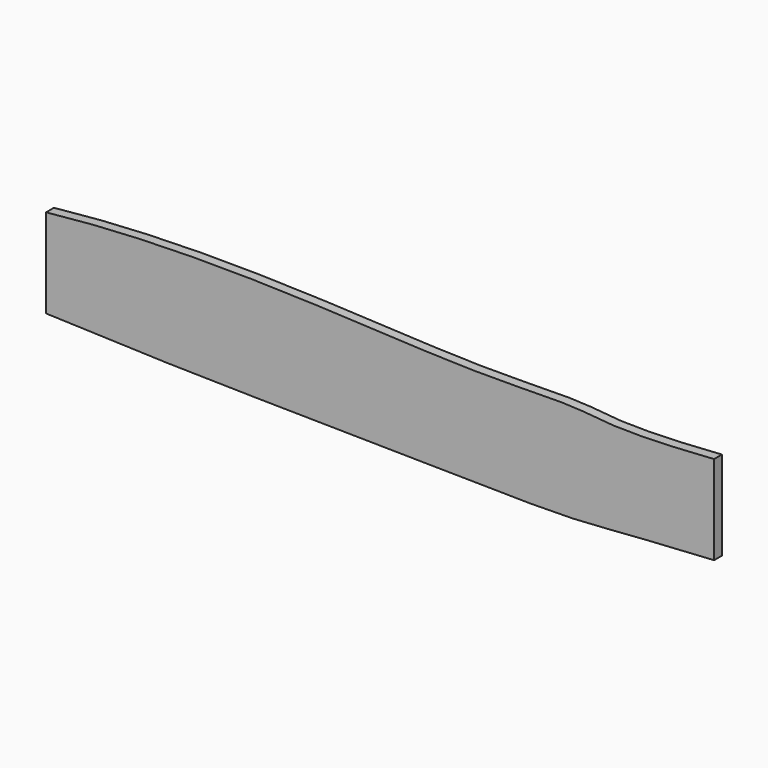
from build123d import *

# Parameters (mm, degrees)
F1_DEPTH = 22


with BuildPart() as f1:
    # F0 (on Front) → F1 (new body)
    with BuildSketch(Plane.XZ):
        with BuildLine():
            add(Edge.make_bspline(
                [(-721.9779274989, 100), (-363.3490536445, 139.8528439818), (167.0322855496, 86.8385849476), (504.5586321002, 108.9363694865), (547.467039115, 83.4871307058), (778.0220725011, 100)],
                knots=[0, 0, 0, 0, 0.4754518031, 0.7245911483, 1, 1, 1, 1], degree=3))
            Line((-721.9779274989, 100), (-721.9779274989, -100))
            add(Edge.make_bspline(
                [(-721.9779274989, -100), (-380.9639619316, -114.0950448783), (-111.0733975433, -112.1910638818), (491.0574952219, -127.7555847442), (535.0755292335, -113.6045644115), (778.0220725011, -100)],
                knots=[0, 0, 0, 0, 0.3943723383, 0.7165290696, 1, 1, 1, 1], degree=3))
            Line((778.0220725011, -100), (778.0220725011, 100))
        make_face()
    extrude(amount=F1_DEPTH)


solid = f1.part
